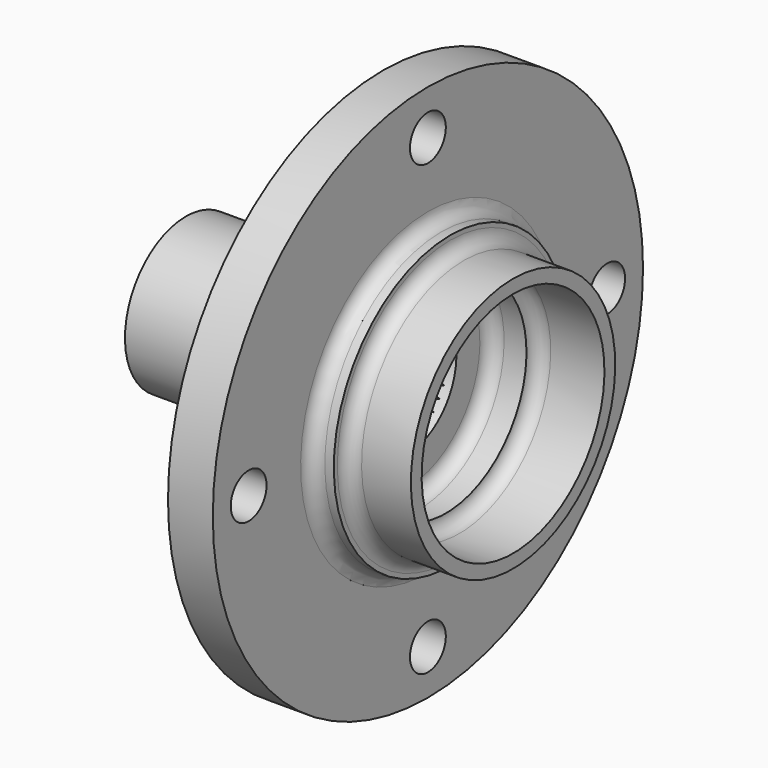
from build123d import *

# Parameters (mm, degrees)
F2_SIZE  = 2.5
F3_W     = 59.0095535054
F3_H     = 6.6185728611
F4_DEPTH = 1.8
F6_DEPTH = 73.001
F7_R     = 5
F8_DEPTH = 25


with BuildPart() as f1:
    # F0 (on Front) → F1 (revolve)
    with BuildSketch(Plane.XZ):
        with BuildLine():
            Line((31, 17), (0, 17))
            Line((0, 17), (0, 11.45))
            Line((0, 11.45), (49.2, 11.45))
            Line((49.2, 11.45), (49.2, 20.5))
            ThreePointArc((49.2, 20.5), (50.0786796564, 22.6213203436), (52.2, 23.5))
            Line((52.2, 23.5), (58, 23.5))
            Line((58, 23.5), (58, 22.5))
            ThreePointArc((58, 22.5), (58.8786796564, 24.6213203436), (61, 25.5))
            Line((61, 25.5), (73, 25.5))
            Line((73, 25.5), (73, 28.5))
            Line((73, 28.5), (62, 28.5))
            ThreePointArc((62, 28.5), (59.8786796564, 29.3786796564), (59, 31.5))
            Line((59, 31.5), (59, 32.5))
            Line((59, 32.5), (57, 32.5))
            ThreePointArc((57, 32.5), (54.8786796564, 33.3786796564), (54, 35.5))
            Line((54, 35.5), (54, 60))
            Line((54, 60), (44, 60))
            Line((44, 60), (44, 39.25))
            Line((44, 39.25), (43, 38.25))
            Line((43, 38.25), (43, 33.5))
            Line((43, 33.5), (37.5, 31.5))
            Line((37.5, 31.5), (37.5, 26.5))
            ThreePointArc((37.5, 26.5), (36.767766953, 24.732233047), (35, 24))
            Line((35, 24), (33, 24))
            Line((33, 24), (33, 19))
            ThreePointArc((33, 19), (32.4142135624, 17.5857864376), (31, 17))
        make_face()
    revolve(axis=Axis((33.0528552457, 0, 0), (1, 0, 0)))

    # F2
    f2_edges = [f1.edges().sort_by_distance(p)[0] for p in [
        (0, 0, -11.45),
        (49.2, 0, -11.45),
    ]]
    chamfer(f2_edges, length=F2_SIZE)

    # F3 (on face) → F4 (cut)
    with BuildSketch(Plane(origin=(33, 0, 0), x_dir=(0, -1, 0), z_dir=(-1, 0, 0))):
        with Locations((7.3212441057, 24.0592864305)):
            Rectangle(F3_W, F3_H)
        with Locations((7.3212441057, -24.0592864305)):
            Rectangle(F3_W, F3_H)
    extrude(amount=-F4_DEPTH, mode=Mode.SUBTRACT)

    # F5 (on face) → F6 (cut, through all)
    with BuildSketch(Plane(origin=(0, 0, 0), x_dir=(0, -1, 0), z_dir=(-1, 0, 0))):
        with BuildLine():
            ThreePointArc((-3.4901013171, 10.9051223192), (-2.6345284703, 11.1427895852), (-1.7631107616, 11.3134406987))
            Line((-1.7631107616, 11.3134406987), (-2.9082449309, 12.6192159591))
            Line((-2.9082449309, 12.6192159591), (-3.4901013171, 10.9051223192))
        make_face()
        with BuildLine():
            ThreePointArc((-1.295556174, 11.3764684415), (-0.4100563361, 11.4426550154), (0.4779097063, 11.4400219542))
            Line((0.4779097063, 11.4400219542), (-0.390476915, 12.944111703))
            Line((-0.390476915, 12.944111703), (-1.295556174, 11.3764684415))
        make_face()
        with BuildLine():
            ThreePointArc((-5.5505238238, 10.0146984618), (-4.7577571528, 10.4147130001), (-3.9363758717, 10.7520902617))
            Line((-3.9363758717, 10.7520902617), (-5.3142507251, 11.8093708228))
            Line((-5.3142507251, 11.8093708228), (-5.5505238238, 10.0146984618))
        make_face()
        with BuildLine():
            ThreePointArc((-8.960474537, 7.1282814249), (-8.3811325721, 7.8012253402), (-7.7513839066, 8.4272502949))
            Line((-7.7513839066, 8.4272502949), (-9.4289780361, 8.8767602871))
            Line((-9.4289780361, 8.8767602871), (-8.960474537, 7.1282814249))
        make_face()
        with BuildLine():
            ThreePointArc((-10.1789602499, 5.2432116332), (-9.7420350236, 6.0162491304), (-9.2465182121, 6.7531030611))
            Line((-9.2465182121, 6.7531030611), (-10.9795728899, 6.8666934659))
            Line((-10.9795728899, 6.8666934659), (-10.1789602499, 5.2432116332))
        make_face()
        with BuildLine():
            ThreePointArc((-11.0062742288, 3.156648159), (-10.7285565325, 4.0000718405), (-10.3863140082, 4.8194378638))
            Line((-10.3863140082, 4.8194378638), (-12.108228915, 4.5927434657))
            Line((-12.108228915, 4.5927434657), (-11.0062742288, 3.156648159))
        make_face()
        with BuildLine():
            ThreePointArc((-11.4106232616, 0.9487764662), (-11.3027856305, 1.8301740331), (-11.1269695817, 2.7005643722))
            Line((-11.1269695817, 2.7005643722), (-12.7715724933, 2.1422969098))
            Line((-12.7715724933, 2.1422969098), (-11.4106232616, 0.9487764662))
        make_face()
        with BuildLine():
            ThreePointArc((-11.3764684415, -1.295556174), (-11.4426550154, -0.4100563361), (-11.4400219542, 0.4779097063))
            Line((-11.4400219542, 0.4779097063), (-12.944111703, -0.390476915))
            Line((-12.944111703, -0.390476915), (-11.3764684415, -1.295556174))
        make_face()
        with BuildLine():
            Line((-12.6192159591, -2.9082449309), (-10.9051223192, -3.4901013171))
            ThreePointArc((-10.9051223192, -3.4901013171), (-11.1427895852, -2.6345284703), (-11.3134406987, -1.7631107616))
            Line((-11.3134406987, -1.7631107616), (-12.6192159591, -2.9082449309))
        make_face()
        with BuildLine():
            Line((-11.8093708228, -5.3142507251), (-10.0146984618, -5.5505238238))
            ThreePointArc((-10.0146984618, -5.5505238238), (-10.4147130001, -4.7577571528), (-10.7520902617, -3.9363758717))
            Line((-10.7520902617, -3.9363758717), (-11.8093708228, -5.3142507251))
        make_face()
        with BuildLine():
            Line((-8.8767602871, -9.4289780361), (-7.1282814249, -8.960474537))
            ThreePointArc((-7.1282814249, -8.960474537), (-7.8012253402, -8.3811325721), (-8.4272502949, -7.7513839066))
            Line((-8.4272502949, -7.7513839066), (-8.8767602871, -9.4289780361))
        make_face()
        with BuildLine():
            ThreePointArc((0.9487764662, 11.4106232616), (1.8301740331, 11.3027856305), (2.7005643722, 11.1269695817))
            Line((2.7005643722, 11.1269695817), (2.1422969098, 12.7715724933))
            Line((2.1422969098, 12.7715724933), (0.9487764662, 11.4106232616))
        make_face()
        with BuildLine():
            ThreePointArc((-7.3976428127, 8.7394153589), (-6.6981478961, 9.2864048352), (-5.9583682646, 9.7775430259))
            Line((-5.9583682646, 9.7775430259), (-7.5160328442, 10.5456981886))
            Line((-7.5160328442, 10.5456981886), (-7.3976428127, 8.7394153589))
        make_face()
        with BuildLine():
            ThreePointArc((3.156648159, 11.0062742288), (4.0000718405, 10.7285565325), (4.8194378638, 10.3863140082))
            Line((4.8194378638, 10.3863140082), (4.5927434657, 12.108228915))
            Line((4.5927434657, 12.108228915), (3.156648159, 11.0062742288))
        make_face()
        with BuildLine():
            ThreePointArc((5.2432116332, 10.1789602499), (6.0162491304, 9.7420350236), (6.7531030611, 9.2465182121))
            Line((6.7531030611, 9.2465182121), (6.8666934659, 10.9795728899))
            Line((6.8666934659, 10.9795728899), (5.2432116332, 10.1789602499))
        make_face()
        with BuildLine():
            ThreePointArc((7.1282814249, 8.960474537), (7.8012253402, 8.3811325721), (8.4272502949, 7.7513839066))
            Line((8.4272502949, 7.7513839066), (8.8767602871, 9.4289780361))
            Line((8.8767602871, 9.4289780361), (7.1282814249, 8.960474537))
        make_face()
        with BuildLine():
            ThreePointArc((8.7394153589, 7.3976428127), (9.2864048352, 6.6981478961), (9.7775430259, 5.9583682646))
            Line((9.7775430259, 5.9583682646), (10.5456981886, 7.5160328442))
            Line((10.5456981886, 7.5160328442), (8.7394153589, 7.3976428127))
        make_face()
        with BuildLine():
            ThreePointArc((10.0146984618, 5.5505238238), (10.4147130001, 4.7577571528), (10.7520902617, 3.9363758717))
            Line((10.7520902617, 3.9363758717), (11.8093708228, 5.3142507251))
            Line((11.8093708228, 5.3142507251), (10.0146984618, 5.5505238238))
        make_face()
        with BuildLine():
            ThreePointArc((10.9051223192, 3.4901013171), (11.1427895852, 2.6345284703), (11.3134406987, 1.7631107616))
            Line((11.3134406987, 1.7631107616), (12.6192159591, 2.9082449309))
            Line((12.6192159591, 2.9082449309), (10.9051223192, 3.4901013171))
        make_face()
        with BuildLine():
            ThreePointArc((11.3764684415, 1.295556174), (11.4316023298, 0.6488206012), (11.45, 0))
            ThreePointArc((11.45, 0), (11.4475052168, -0.2390069292), (11.4400219542, -0.4779097063))
            Line((11.4400219542, -0.4779097063), (12.944111703, 0.390476915))
            Line((12.944111703, 0.390476915), (11.3764684415, 1.295556174))
        make_face()
        with BuildLine():
            Line((12.7715724933, -2.1422969098), (11.4106232616, -0.9487764662))
            ThreePointArc((11.4106232616, -0.9487764662), (11.3027856305, -1.8301740331), (11.1269695817, -2.7005643722))
            Line((11.1269695817, -2.7005643722), (12.7715724933, -2.1422969098))
        make_face()
        with BuildLine():
            Line((12.108228915, -4.5927434657), (11.0062742288, -3.156648159))
            ThreePointArc((11.0062742288, -3.156648159), (10.7285565325, -4.0000718405), (10.3863140082, -4.8194378638))
            Line((10.3863140082, -4.8194378638), (12.108228915, -4.5927434657))
        make_face()
        with BuildLine():
            Line((-10.5456981886, -7.5160328442), (-8.7394153589, -7.3976428127))
            ThreePointArc((-8.7394153589, -7.3976428127), (-9.2864048352, -6.6981478961), (-9.7775430259, -5.9583682646))
            Line((-9.7775430259, -5.9583682646), (-10.5456981886, -7.5160328442))
        make_face()
        with BuildLine():
            Line((-6.8666934659, -10.9795728899), (-5.2432116332, -10.1789602499))
            ThreePointArc((-5.2432116332, -10.1789602499), (-6.0162491304, -9.7420350236), (-6.7531030611, -9.2465182121))
            Line((-6.7531030611, -9.2465182121), (-6.8666934659, -10.9795728899))
        make_face()
        with BuildLine():
            Line((-4.5927434657, -12.108228915), (-3.156648159, -11.0062742288))
            ThreePointArc((-3.156648159, -11.0062742288), (-4.0000718405, -10.7285565325), (-4.8194378638, -10.3863140082))
            Line((-4.8194378638, -10.3863140082), (-4.5927434657, -12.108228915))
        make_face()
        with BuildLine():
            Line((2.9082449309, -12.6192159591), (3.4901013171, -10.9051223192))
            ThreePointArc((3.4901013171, -10.9051223192), (2.6345284703, -11.1427895852), (1.7631107616, -11.3134406987))
            Line((1.7631107616, -11.3134406987), (2.9082449309, -12.6192159591))
        make_face()
        with BuildLine():
            Line((-2.1422969098, -12.7715724933), (-0.9487764662, -11.4106232616))
            ThreePointArc((-0.9487764662, -11.4106232616), (-1.8301740331, -11.3027856305), (-2.7005643722, -11.1269695817))
            Line((-2.7005643722, -11.1269695817), (-2.1422969098, -12.7715724933))
        make_face()
        with BuildLine():
            Line((0.390476915, -12.944111703), (1.295556174, -11.3764684415))
            ThreePointArc((1.295556174, -11.3764684415), (0.4100563361, -11.4426550154), (-0.4779097063, -11.4400219542))
            Line((-0.4779097063, -11.4400219542), (0.390476915, -12.944111703))
        make_face()
        with BuildLine():
            Line((5.3142507251, -11.8093708228), (5.5505238238, -10.0146984618))
            ThreePointArc((5.5505238238, -10.0146984618), (4.7577571528, -10.4147130001), (3.9363758717, -10.7520902617))
            Line((3.9363758717, -10.7520902617), (5.3142507251, -11.8093708228))
        make_face()
        with BuildLine():
            Line((7.5160328442, -10.5456981886), (7.3976428127, -8.7394153589))
            ThreePointArc((7.3976428127, -8.7394153589), (6.6981478961, -9.2864048352), (5.9583682646, -9.7775430259))
            Line((5.9583682646, -9.7775430259), (7.5160328442, -10.5456981886))
        make_face()
        with BuildLine():
            Line((9.4289780361, -8.8767602871), (8.960474537, -7.1282814249))
            ThreePointArc((8.960474537, -7.1282814249), (8.3811325721, -7.8012253402), (7.7513839066, -8.4272502949))
            Line((7.7513839066, -8.4272502949), (9.4289780361, -8.8767602871))
        make_face()
        with BuildLine():
            Line((10.9795728899, -6.8666934659), (10.1789602499, -5.2432116332))
            ThreePointArc((10.1789602499, -5.2432116332), (9.7420350236, -6.0162491304), (9.2465182121, -6.7531030611))
            Line((9.2465182121, -6.7531030611), (10.9795728899, -6.8666934659))
        make_face()
    extrude(amount=-F6_DEPTH, mode=Mode.SUBTRACT)

    # F7 (on face) → F8 (cut)
    with BuildSketch(Plane.YZ.offset(54)):
        with Locations((0, 50)):
            Circle(F7_R)
        with Locations((-50, 0)):
            Circle(F7_R)
        with Locations((0, -50)):
            Circle(F7_R)
        with Locations((50, 0)):
            Circle(F7_R)
    extrude(amount=-F8_DEPTH, mode=Mode.SUBTRACT)


solid = f1.part
